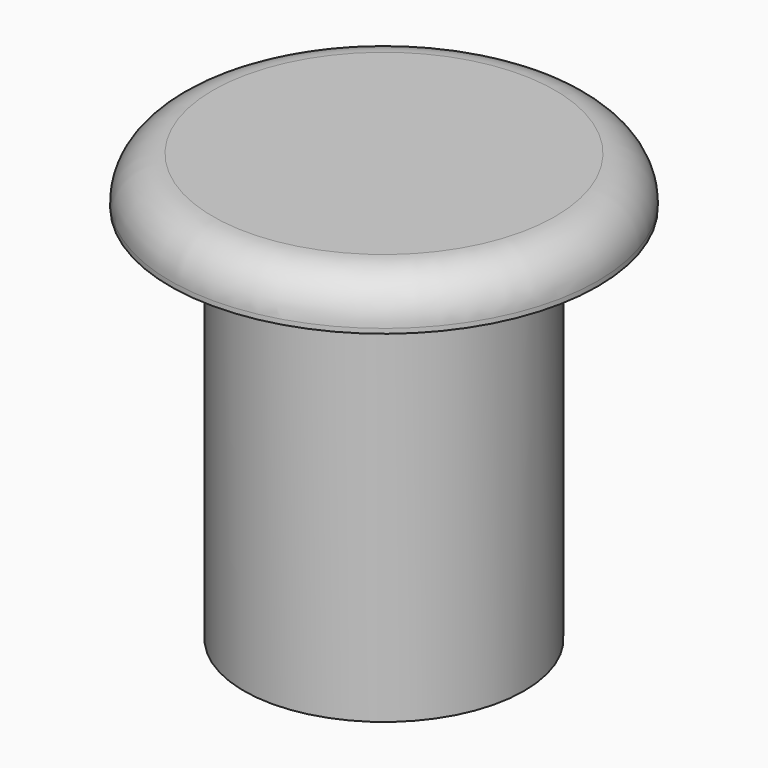
from build123d import *

# Parameters (mm, degrees)
CYLINDER003_R     = 4.5
CYLINDER003_DEPTH = 1
FILLET001_R       = 0.9
CYLINDER002_R     = 2.95
CYLINDER002_DEPTH = 8


with BuildPart() as fillet001:
    # Cylinder003 → Cylinder003 (new body)
    with BuildSketch(Plane.XY.offset(8)):
        Circle(CYLINDER003_R)
    extrude(amount=CYLINDER003_DEPTH)

    # Fillet001
    fillet001_edges = [fillet001.edges().sort_by_distance(p)[0] for p in [
        (-4.5, 0, 9),
    ]]
    fillet(fillet001_edges, radius=FILLET001_R)


with BuildPart() as fusion001:
    # Cylinder002 → Cylinder002 (new body)
    with BuildSketch(Plane.XY):
        Circle(CYLINDER002_R)
    extrude(amount=CYLINDER002_DEPTH)

    # Fusion001: union Fillet001
    add(fillet001.part)


solid = fusion001.part
